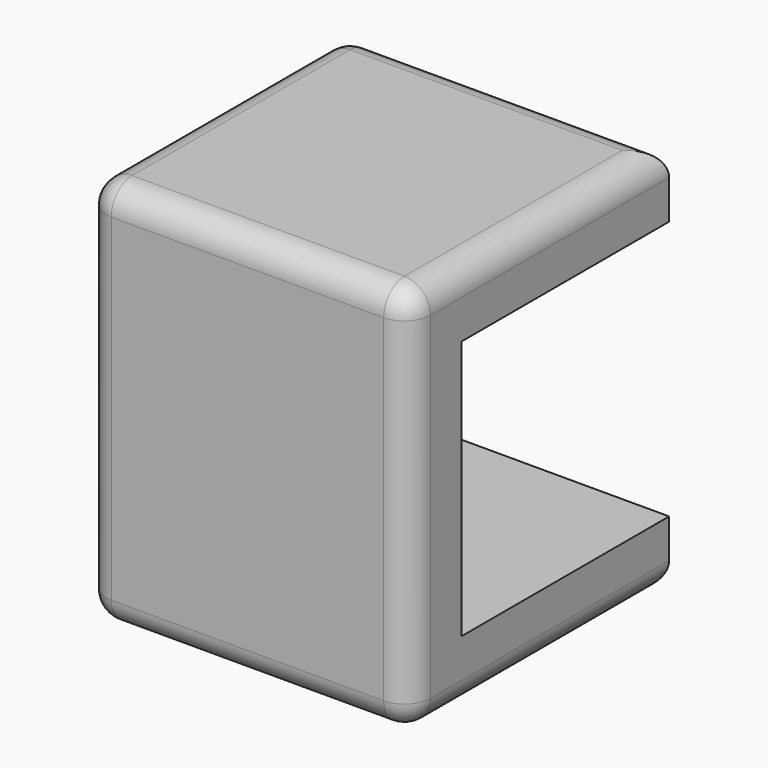
from build123d import *

# Parameters (mm, degrees)
F0_W     = 25
F0_H     = 30
F1_DEPTH = 12.5
F2_W     = 20
F2_H     = 20
F3_DEPTH = 20
F4_R     = 3.175
F5_DEPTH = 25.001
F6_R     = 2


with BuildPart() as f1:
    # F0 (on Front) → F1 (new body, symmetric)
    with BuildSketch(Plane.XZ):
        with Locations((12.5, 15)):
            Rectangle(F0_W, F0_H)
    extrude(amount=F1_DEPTH, both=True)

    # F2 (on face) → F3 (cut)
    with BuildSketch(Plane(origin=(0, 12.5, 0), x_dir=(-1, 0, 0), z_dir=(0, 1, 0))):
        with Locations((-15, 15)):
            Rectangle(F2_W, F2_H)
    extrude(amount=-F3_DEPTH, mode=Mode.SUBTRACT)

    # F4 (on face) → F5 (cut, through all)
    with BuildSketch(Plane(origin=(0, 0, 0), x_dir=(0, -1, 0), z_dir=(-1, 0, 0))):
        with Locations((-2.5, 15)):
            Circle(F4_R)
    extrude(amount=-F5_DEPTH, mode=Mode.SUBTRACT)

    # F6
    f6_edges = [f1.edges().sort_by_distance(p)[0] for p in [
        (0, 0, 30),
        (12.5, 12.5, 30),
        (12.5, -12.5, 30),
        (25, 0, 30),
        (0, -12.5, 15),
        (12.5, -12.5, 0),
        (25, -12.5, 15),
        (0, 0, 0),
        (12.5, 12.5, 0),
        (25, 0, 0),
        (0, 12.5, 15),
    ]]
    fillet(f6_edges, radius=F6_R)


solid = f1.part
